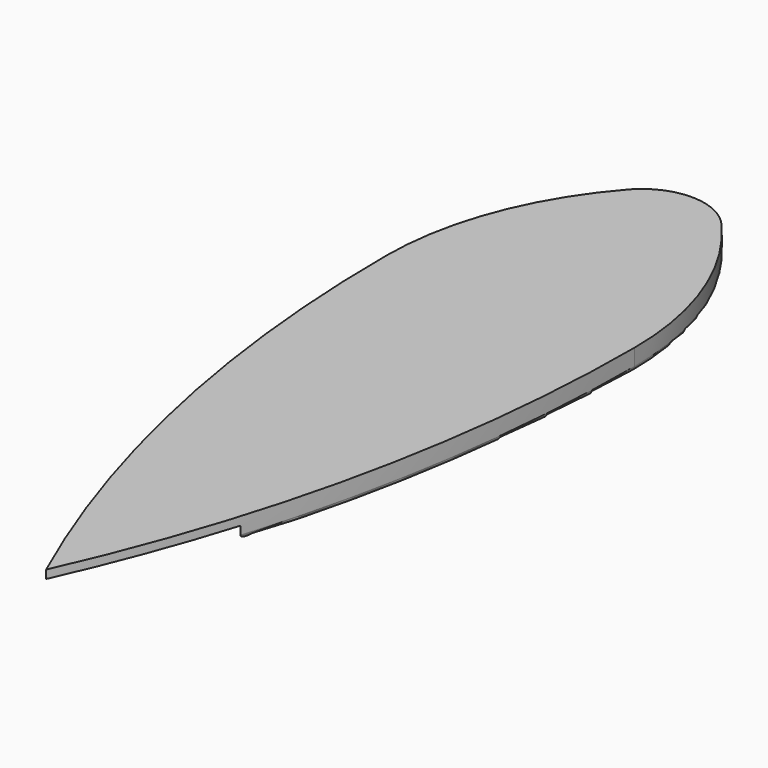
from build123d import *

# Parameters (mm, degrees)
F1_DEPTH      = 25
F2_R          = 75
F3_R          = 5
F4_W          = 150
F4_H          = 30
F5_DEPTH      = 473.4323484298
F5_DEPTH_BACK = 500.0010001


with BuildPart() as f1:
    # F0 (on Top) → F1 (new body)
    with BuildSketch(Plane.XY):
        with BuildLine():
            ThreePointArc((150, 200), (110.410196625, 367.7050983125), (0, 500))
            ThreePointArc((0, 500), (-110.410196625, 367.7050983125), (-150, 200))
            ThreePointArc((-150, 200), (-112.0791240489, -157.9455265819), (0, -500))
            ThreePointArc((0, -500), (112.0791240489, -157.9455265819), (150, 200))
        make_face()
    extrude(amount=F1_DEPTH)

    # F2
    f2_edges = [f1.edges().sort_by_distance(p)[0] for p in [
        (0, 500, 12.5),
    ]]
    fillet(f2_edges, radius=F2_R)

    # F3
    f3_edges = [f1.edges().sort_by_distance(p)[0] for p in [
        (125.78038, 332.582521, 0),
        (0, 473.431348, 0),
        (112.079124, -157.945527, 0),
        (-125.78038, 332.582521, 0),
        (-112.079124, -157.945527, 0),
    ]]
    fillet(f3_edges, radius=F3_R)

    # F4 (on Front) → F5 (cut, two sides)
    with BuildSketch(Plane.XZ) as f5_sk:
        Rectangle(F4_W, F4_H)
    extrude(amount=-F5_DEPTH, mode=Mode.SUBTRACT)
    extrude(f5_sk.sketch, amount=F5_DEPTH_BACK, mode=Mode.SUBTRACT)


solid = f1.part
